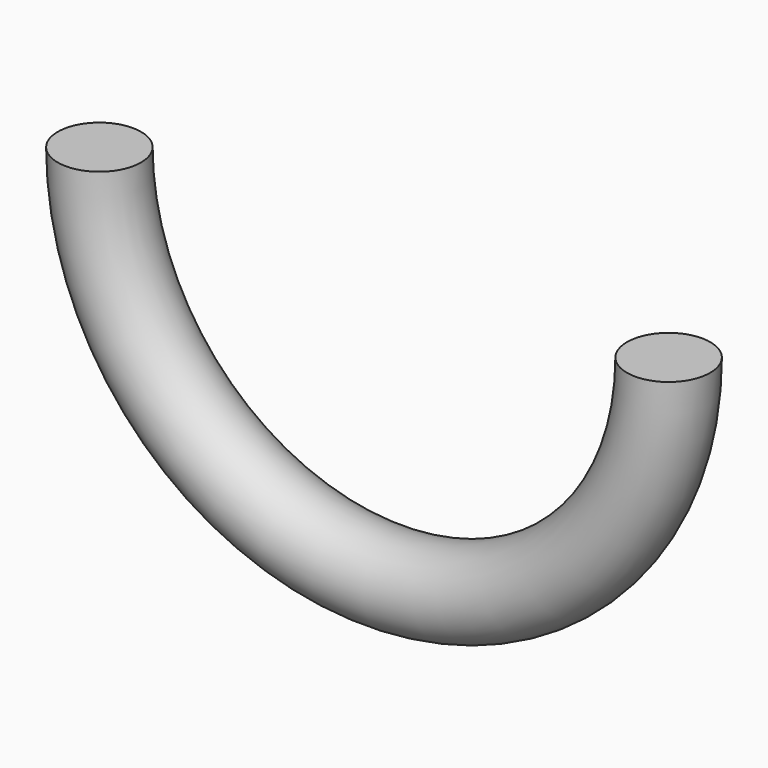
from build123d import *

# Parameters (mm, degrees)
F0_R     = 10
F1_ANGLE = 180


with BuildPart() as f1:
    # F0 (on Top) → F1 (revolve)
    with BuildSketch(Plane.XY):
        with Locations((-68.380011, 0)):
            Circle(F0_R)
    revolve(axis=Axis((0, 12.162162, 0), (0, -1, 0)), revolution_arc=F1_ANGLE)


solid = f1.part
